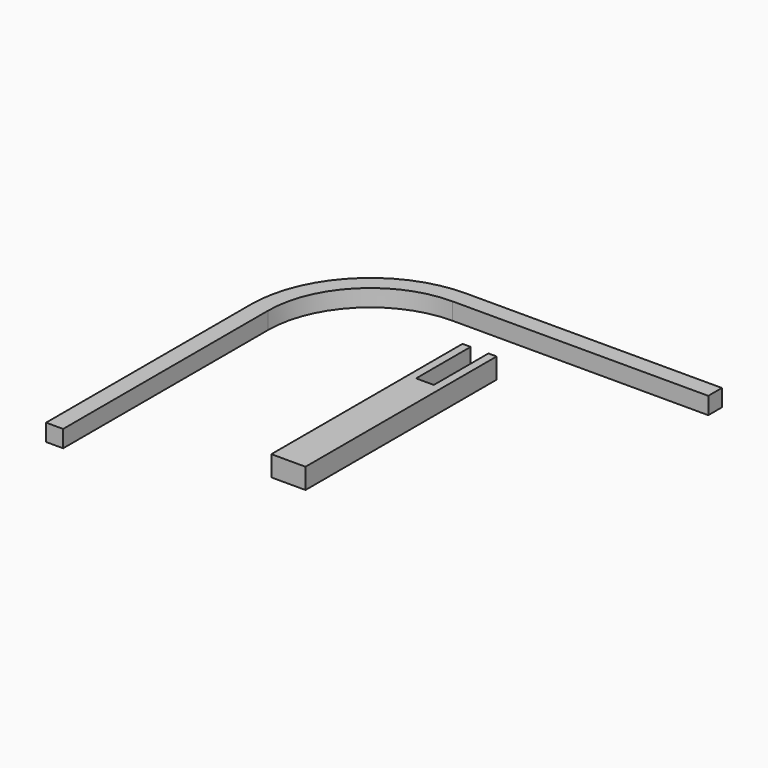
from build123d import *

# Parameters (mm, degrees)
F1_DEPTH = 5
F0_W     = 5.2
F0_H     = 20
F2_DEPTH = 1
F3_DEPTH = 5


with BuildPart() as f1:
    # F0 (on Top) → F1 (new body)
    with BuildSketch(Plane.XY):
        with BuildLine():
            Line((55, 50), (55, 55))
            Line((55, 55), (-20, 55))
            ThreePointArc((-20, 55), (-44.748737, 44.748737), (-55, 20))
            Line((-55, 20), (-55, -55))
            Line((-55, -55), (-50, -55))
            Line((-50, -55), (-50, 20))
            ThreePointArc((-50, 20), (-41.213203, 41.213203), (-20, 50))
            Line((-20, 50), (55, 50))
        make_face()
    extrude(amount=F1_DEPTH)


with BuildPart() as f2:
    # F0 (on Top) → F2 (new body)
    with BuildSketch(Plane.XY):
        Polygon((-5, -35), (5, -35), (5, 35), (2.6, 35), (2.6, 15), (-2.6, 15), (-2.6, 35), (-5, 35), align=None)
        with Locations((0, 25)):
            Rectangle(F0_W, F0_H)
    extrude(amount=-F2_DEPTH)

    # F0 (on Top) → F3 (join)
    with BuildSketch(Plane.XY):
        Polygon((-5, -35), (5, -35), (5, 35), (2.6, 35), (2.6, 15), (-2.6, 15), (-2.6, 35), (-5, 35), align=None)
    extrude(amount=F3_DEPTH)


solid = Compound([f1.part, f2.part])
